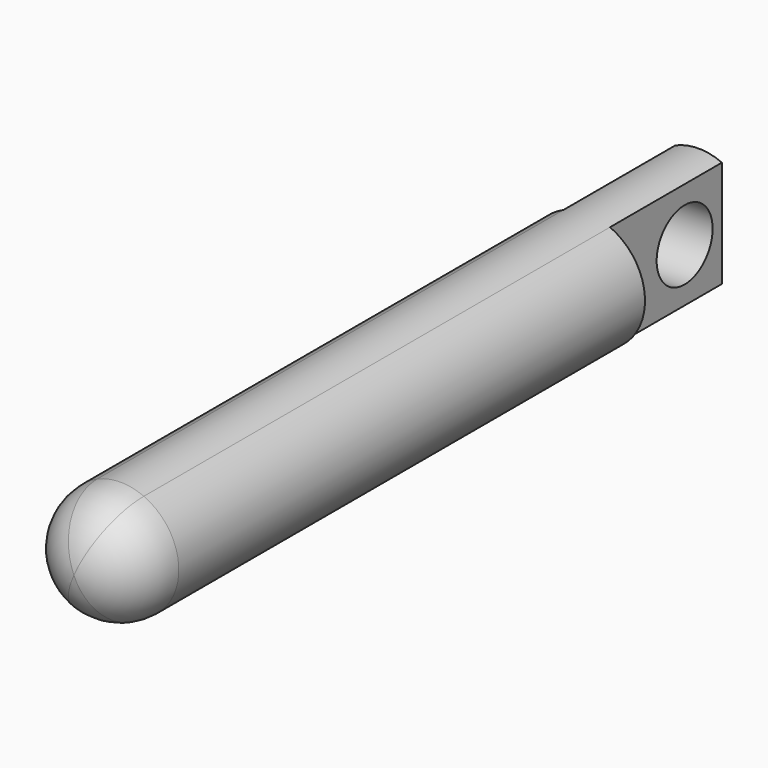
from build123d import *

# Parameters (mm, degrees)
F2_DEPTH = 67
F3_DEPTH = 12
F4_R     = 3
F5_DEPTH = 25
F6_R     = 5


with BuildPart() as f2:
    # F1 (on Front) → F2 (new body)
    with BuildSketch(Plane.XZ):
        with BuildLine():
            ThreePointArc((2, -4.582575695), (4.1833001327, -2.7386127875), (5, 0))
            ThreePointArc((5, 0), (4.1833001327, 2.7386127875), (2, 4.582575695))
            Line((2, 4.582575695), (2, -4.582575695))
        make_face()
        with BuildLine():
            Line((2, -4.582575695), (2, 4.582575695))
            ThreePointArc((2, 4.582575695), (0, 5), (-2, 4.582575695))
            Line((-2, 4.582575695), (-2, -4.582575695))
            ThreePointArc((-2, -4.582575695), (0, -5), (2, -4.582575695))
        make_face()
        with BuildLine():
            Line((-2, -4.582575695), (-2, 4.582575695))
            ThreePointArc((-2, 4.582575695), (-5, 0), (-2, -4.582575695))
        make_face()
    extrude(amount=F2_DEPTH)

    # F1 (on Front) → F3 (cut)
    with BuildSketch(Plane.XZ):
        with BuildLine():
            Line((-2, -4.582575695), (-2, 4.582575695))
            ThreePointArc((-2, 4.582575695), (-5, 0), (-2, -4.582575695))
        make_face()
        with BuildLine():
            ThreePointArc((2, -4.582575695), (4.1833001327, -2.7386127875), (5, 0))
            ThreePointArc((5, 0), (4.1833001327, 2.7386127875), (2, 4.582575695))
            Line((2, 4.582575695), (2, -4.582575695))
        make_face()
    extrude(amount=F3_DEPTH, mode=Mode.SUBTRACT)

    # F4 (on face) → F5 (cut)
    with BuildSketch(Plane.YZ.offset(2)):
        with Locations((-4, 0)):
            Circle(F4_R)
    extrude(amount=-F5_DEPTH, mode=Mode.SUBTRACT)

    # F6
    f6_edges = [f2.edges().sort_by_distance(p)[0] for p in [
        (2, -67, -4.582576),
    ]]
    fillet(f6_edges, radius=F6_R)


solid = f2.part
